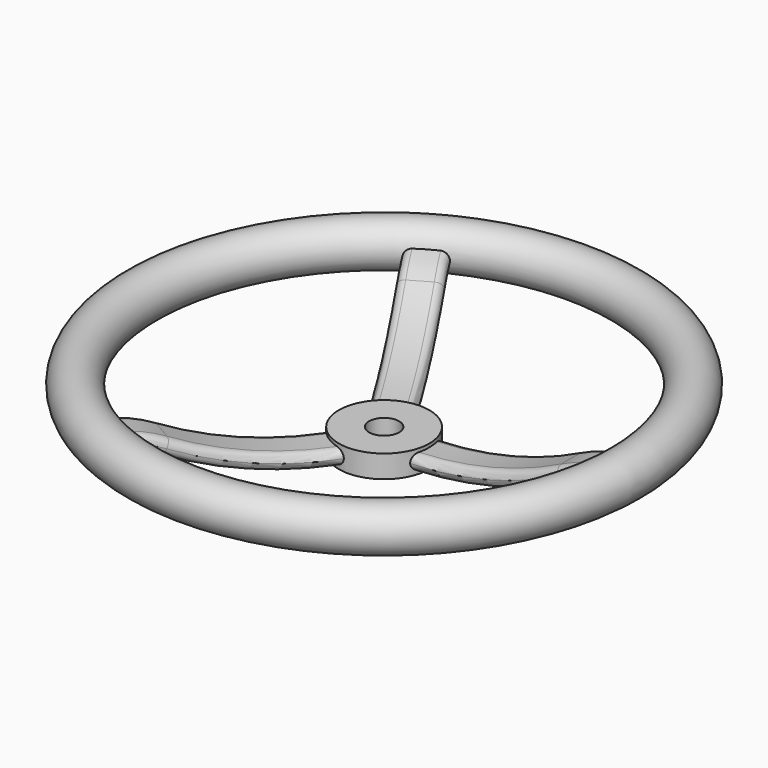
from build123d import *

# Parameters (mm, degrees)
F5_COUNT = 3


with BuildPart() as f2:
    # F0 (on Front) → F2 (revolve)
    with BuildSketch(Plane.XZ):
        with BuildLine():
            ThreePointArc((184.2387503295, -1.8367119901), (204.1194274789, -19.0277994816), (222.25, 0))
            ThreePointArc((222.25, 0), (202.2805725211, 19.0277994816), (184.2387503295, -1.8367119901))
        make_face()
        Polygon((38.1, -50.8), (38.1, -41.0103017304), (38.1, -31.75), (12.7, -31.75), (12.7, -50.8), align=None)
    revolve(axis=Axis((0, 0, -25.4), (0, 0, -1)))

    # F4: sweep along a path in F0
    with BuildLine(Plane.XZ) as f4_path:
        ThreePointArc((203.2, 0), (180.8603418204, -2.5589724571), (159.6780030257, -10.1033207262))
        ThreePointArc((159.6780030257, -10.1033207262), (94.3243347544, -33.3798266342), (25.4, -41.275))
    # F3 (on line) → F4 (sweep)
    with BuildSketch(Plane.YZ.offset(203.2)):
        with BuildLine():
            ThreePointArc((-15.875, 0), (-14.0151280605, -4.4901280605), (-9.525, -6.35))
            Line((-9.525, -6.35), (9.525, -6.35))
            ThreePointArc((9.525, -6.35), (14.0151280605, -4.4901280605), (15.875, 0))
            ThreePointArc((15.875, 0), (14.0151280605, 4.4901280605), (9.525, 6.35))
            Line((9.525, 6.35), (-9.525, 6.35))
            ThreePointArc((-9.525, 6.35), (-14.0151280605, 4.4901280605), (-15.875, 0))
        make_face()
    sweep(path=f4_path.line)

    # F5: F2 ×3 about axis
    f5_axis = Axis((0, 0, 0), (0, 0, 1))


with BuildPart() as f2_1:
    add(f2.part)
    for i in range(1, F5_COUNT):
        add(f2.part.rotate(f5_axis, i * 360 / F5_COUNT))


solid = f2_1.part
